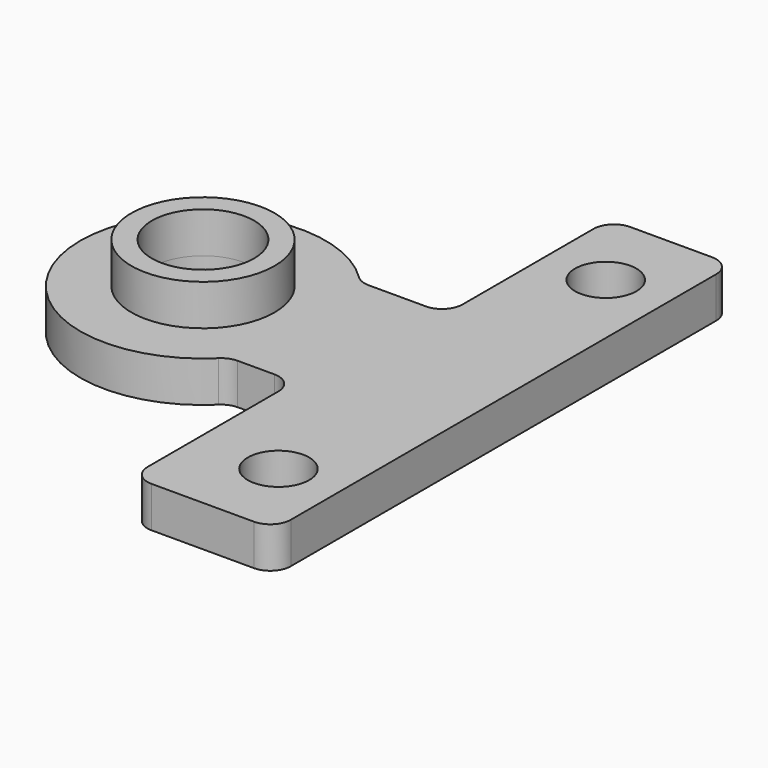
from build123d import *

# Parameters (mm, degrees)
F0_R     = 3.5
F0_R_2   = 2.5
F1_DEPTH = 4
F0_R_3   = 1.5
F2_DEPTH = 2


with BuildPart() as f1:
    # F0 (on Top) → F1 (new body)
    with BuildSketch(Plane.XY):
        with Locations((-11.691081, 0)):
            Circle(F0_R)
        with Locations((-11.691081, 0)):
            Circle(F0_R_2, mode=Mode.SUBTRACT)
    extrude(amount=F1_DEPTH)


with BuildPart() as f2:
    # F0 (on Top) → F2 (new body)
    with BuildSketch(Plane.XY):
        with BuildLine():
            Line((2, 14), (-2, 14))
            ThreePointArc((-2, 14), (-2.707107, 13.707107), (-3, 13))
            Line((-3, 13), (-3, 5))
            ThreePointArc((-3, 5), (-3.292893, 4.292893), (-4, 4))
            Line((-4, 4), (-6.792102, 4))
            ThreePointArc((-6.792102, 4), (-7.170066, 4.07418), (-7.491956, 4.285714))
            ThreePointArc((-7.491956, 4.285714), (-17.691081, 0), (-7.491956, -4.285714))
            ThreePointArc((-7.491956, -4.285714), (-7.170066, -4.07418), (-6.792102, -4))
            Line((-6.792102, -4), (-5, -4))
            ThreePointArc((-5, -4), (-4.292893, -4.292893), (-4, -5))
            Line((-4, -5), (-4, -13))
            ThreePointArc((-4, -13), (-3.707107, -13.707107), (-3, -14))
            Line((-3, -14), (2, -14))
            ThreePointArc((2, -14), (2.707107, -13.707107), (3, -13))
            Line((3, -13), (3, 13))
            ThreePointArc((3, 13), (2.707107, 13.707107), (2, 14))
        make_face()
        with Locations((0, -10)):
            Circle(F0_R_3, mode=Mode.SUBTRACT)
        with Locations((-11.691081, 0)):
            Circle(F0_R, mode=Mode.SUBTRACT)
        with Locations((0, 10)):
            Circle(F0_R_3, mode=Mode.SUBTRACT)
        with Locations((-11.691081, 0)):
            Circle(F0_R)
        with Locations((-11.691081, 0)):
            Circle(F0_R_2, mode=Mode.SUBTRACT)
    extrude(amount=F2_DEPTH)


solid = Compound([f1.part, f2.part])
